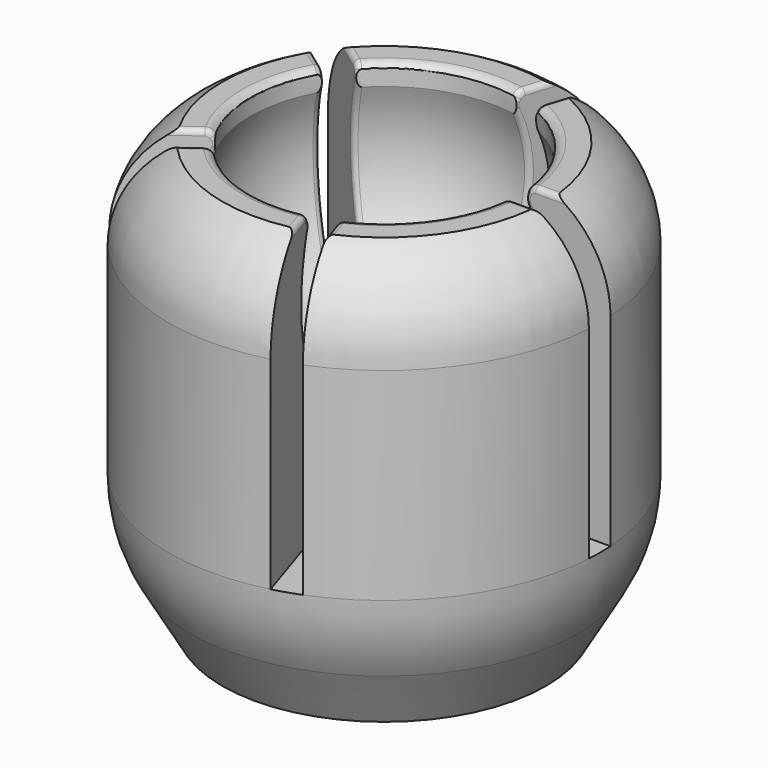
from build123d import *

# Parameters (mm, degrees)
CYLINDER_R      = 4.95
CYLINDER_DEPTH  = 10
BOX_W           = 10
BOX_H           = 1
BOX_DEPTH       = 15
ARRAY_COUNT     = 5
CHAMFER_SIZE    = 0.5
FILLET_R        = 0.35
FILLET001_R     = 0.2
CHAMFER001_SIZE = 0.5
FILLET002_R     = 1


with BuildPart() as cilindro:
    # Cylinder → Cylinder (new body)
    with BuildSketch(Plane.XY.offset(13)):
        Circle(CYLINDER_R)
    extrude(amount=CYLINDER_DEPTH)


with BuildPart() as array:
    # Box → Box (new body)
    with BuildSketch(Plane(origin=(1, -0.5, 5), x_dir=(1, 0, 0), z_dir=(0, 0, 1))):
        with Locations((5, 0.5)):
            Rectangle(BOX_W, BOX_H)
    extrude(amount=BOX_DEPTH)

    # Array: Array ×5 about axis
    array_axis = Axis((0, 0, 0), (0, 0, 1))


with BuildPart() as array_1:
    add(array.part)
    for i in range(1, ARRAY_COUNT):
        add(array.part.rotate(array_axis, i * 360 / ARRAY_COUNT))


with BuildPart() as esfera:
    # Sphere → Sphere (revolve)
    with BuildSketch(Plane(origin=(0, 0, 13), x_dir=(1, 0, 0), z_dir=(0, -1, 0))):
        with BuildLine():
            ThreePointArc((0, -5.35), (5.35, 0), (0, 5.35))
            Line((0, 5.35), (0, -5.35))
        make_face()
    revolve(axis=Axis((0, 0, 13), (0, 0, 1)))


with BuildPart() as cut002:
    # Sketch → Revolution (revolve)
    with BuildSketch(Plane.XZ):
        with BuildLine():
            Line((-1.6, 0), (-1.6, 5))
            Line((-1.6, 5), (-3, 5))
            Line((-3, 5), (-3, 15.8))
            Line((-3, 15.8), (-6, 15.8))
            ThreePointArc((-6, 15.8), (-7.460974, 14.429378), (-8, 12.5))
            Line((-8, 12.5), (-8, 5))
            ThreePointArc((-8, 5), (-7.804685, 3.516436), (-7.232051, 2.133975))
            Line((-7.232051, 2.133975), (-6, 0))
            Line((-6, 0), (-1.6, 0))
        make_face()
    revolve(axis=Axis((0, 0, 0), (0, 0, 1)))

    # Cut: cut Esfera
    add(esfera.part, mode=Mode.SUBTRACT)

    # Chamfer
    chamfer_edges = [cut002.edges().sort_by_distance(p)[0] for p in [
        (-4.558783, 0, 15.8),
    ]]
    chamfer(chamfer_edges, length=CHAMFER_SIZE)

    # Fillet
    fillet_edges = [cut002.edges().sort_by_distance(p)[0] for p in [
        (-4.80027, 0, 15.362183),
        (-5.058783, 0, 15.8),
    ]]
    fillet(fillet_edges, radius=FILLET_R)

    # Cut001: cut Array
    add(array_1.part, mode=Mode.SUBTRACT)

    # Fillet001
    fillet001_edges = [cut002.edges().sort_by_distance(p)[0] for p in [
        (5.121863, 0.5, 11.537462),
        (2.058271, 4.716673, 11.537462),
        (1.107215, 5.02569, 11.537462),
        (-3.849782, 3.415064, 11.537462),
        (-4.437567, 2.606047, 11.537462),
        (-4.437567, -2.606047, 11.537462),
        (5.121863, -0.5, 11.537462),
        (2.058271, -4.716673, 11.537462),
        (1.107215, -5.02569, 11.537462),
        (-3.849782, -3.415064, 11.537462),
    ]]
    fillet(fillet001_edges, radius=FILLET001_R)

    # Chamfer001
    chamfer001_edges = [cut002.edges().sort_by_distance(p)[0] for p in [
        (1.6, 0, 0),
    ]]
    chamfer(chamfer001_edges, length=CHAMFER001_SIZE)

    # Fillet002
    fillet002_edges = [cut002.edges().sort_by_distance(p)[0] for p in [
        (1.6, 0, 0.5),
    ]]
    fillet(fillet002_edges, radius=FILLET002_R)

    # Cut002: cut Cilindro
    add(cilindro.part, mode=Mode.SUBTRACT)


solid = cut002.part
